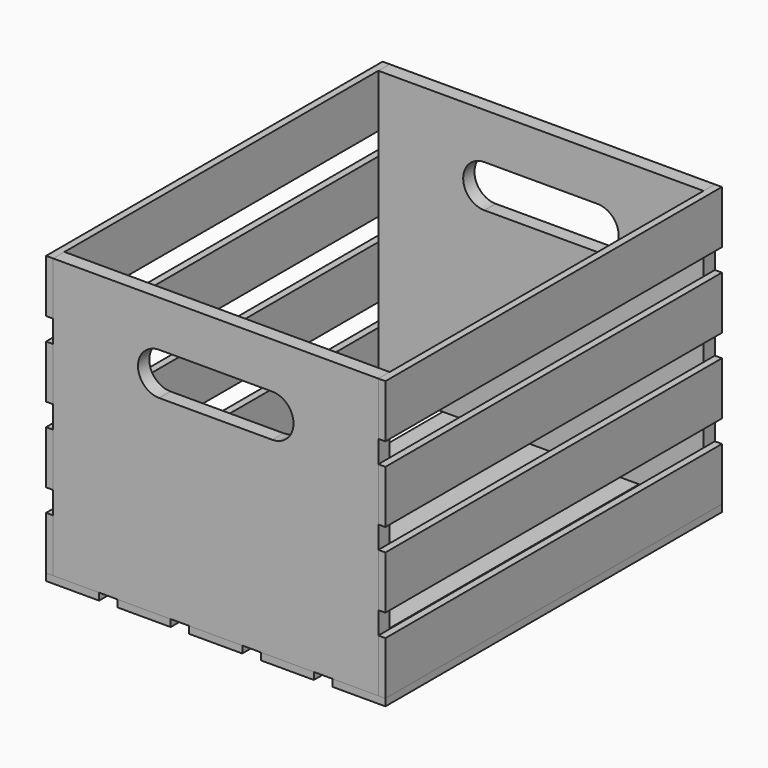
from build123d import *

# Parameters (mm, degrees)
F0_W     = 292.1
F0_H     = 250.825
F1_DEPTH = 12.7
F4_W     = 377.825
F4_H     = 47.625
F5_DEPTH = 6.35
F8_DEPTH = 377.825
F7_W     = 47.625
F7_H     = 6.35


with BuildPart() as f1:
    # F0 (on Front) → F1 (new body)
    with BuildSketch(Plane.XZ):
        with Locations((0, 125.4125)):
            Rectangle(F0_W, F0_H)
        with BuildLine():
            ThreePointArc((-50.8, 171.45), (-69.85, 190.5), (-50.8, 209.55))
            Line((-50.8, 209.55), (50.8, 209.55))
            ThreePointArc((50.8, 209.55), (69.85, 190.5), (50.8, 171.45))
            Line((50.8, 171.45), (-50.8, 171.45))
        make_face(mode=Mode.SUBTRACT)
    extrude(amount=-F1_DEPTH)


with BuildPart() as f3_1:
    # F3: instance of F1
    add(f1.part.mirror(Plane(origin=(0, 188.9125, 120.6339904822), x_dir=(1, 0, 0), z_dir=(0, -1, 0))))


with BuildPart() as f5:
    # F4 (on face) → F5 (new body)
    with BuildSketch(Plane.YZ.offset(146.05)):
        with Locations((188.9125, 23.8125)):
            Rectangle(F4_W, F4_H)
    extrude(amount=F5_DEPTH)


with BuildPart() as f5b:
    # F4 (on face) → F5, piece 2 (new body)
    with BuildSketch(Plane.YZ.offset(146.05)):
        with Locations((188.9125, 227.0125)):
            Rectangle(F4_W, F4_H)
    extrude(amount=F5_DEPTH)


with BuildPart() as f5c:
    # F4 (on face) → F5, piece 3 (new body)
    with BuildSketch(Plane.YZ.offset(146.05)):
        with Locations((188.9125, 91.5458333333)):
            Rectangle(F4_W, F4_H)
    extrude(amount=F5_DEPTH)


with BuildPart() as f5d:
    # F4 (on face) → F5, piece 4 (new body)
    with BuildSketch(Plane.YZ.offset(146.05)):
        with Locations((188.9125, 159.2791666667)):
            Rectangle(F4_W, F4_H)
    extrude(amount=F5_DEPTH)


with BuildPart() as f6_1:
    # F6: instance of F5d
    add(f5d.part.mirror(Plane.YZ))


with BuildPart() as f6_2:
    # F6: instance of F5b
    add(f5b.part.mirror(Plane.YZ))


with BuildPart() as f6_3:
    # F6: instance of F5c
    add(f5c.part.mirror(Plane.YZ))


with BuildPart() as f6_4:
    # F6: instance of F5
    add(f5.part.mirror(Plane.YZ))


with BuildPart() as f8:
    # F7 (on face) → F8 (new body, through all)
    with BuildSketch(Plane.XZ):
        Polygon((-104.775, 0), (-146.05, 0), (-152.4, 0), (-152.4, -6.35), (-104.775, -6.35), align=None)
    extrude(amount=-F8_DEPTH)


with BuildPart() as f8b:
    # F7 (on face) → F8, piece 2 (new body, through all)
    with BuildSketch(Plane.XZ):
        Polygon((152.4, -6.35), (152.4, 0), (146.05, 0), (104.775, 0), (104.775, -6.35), align=None)
    extrude(amount=-F8_DEPTH)


with BuildPart() as f8c:
    # F7 (on face) → F8, piece 3 (new body, through all)
    with BuildSketch(Plane.XZ):
        with Locations((64.29375, -3.175)):
            Rectangle(F7_W, F7_H)
    extrude(amount=-F8_DEPTH)


with BuildPart() as f8d:
    # F7 (on face) → F8, piece 4 (new body, through all)
    with BuildSketch(Plane.XZ):
        with Locations((0, -3.175)):
            Rectangle(F7_W, F7_H)
    extrude(amount=-F8_DEPTH)


with BuildPart() as f8e:
    # F7 (on face) → F8, piece 5 (new body, through all)
    with BuildSketch(Plane.XZ):
        with Locations((-64.29375, -3.175)):
            Rectangle(F7_W, F7_H)
    extrude(amount=-F8_DEPTH)


solid = Compound([f1.part, f3_1.part, f5.part, f5b.part, f5c.part, f5d.part, f6_1.part, f6_2.part, f6_3.part, f6_4.part, f8.part, f8b.part, f8c.part, f8d.part, f8e.part])
